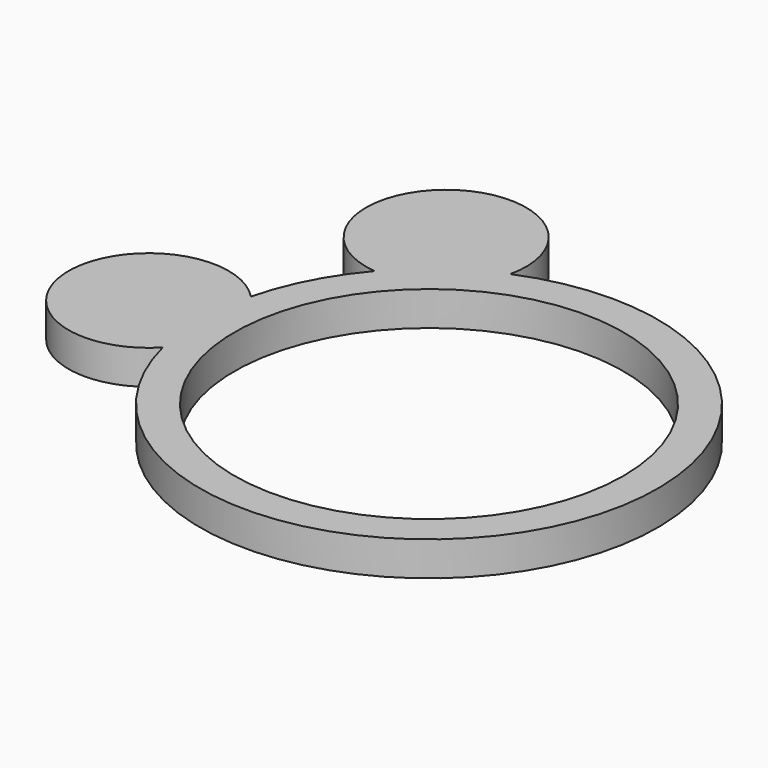
from build123d import *

# Parameters (mm, degrees)
CYLINDER003_R     = 0.7
CYLINDER003_DEPTH = 0.3
CYLINDER002_R     = 0.7
CYLINDER002_DEPTH = 0.3
CYLINDER001_R     = 1.7
CYLINDER001_DEPTH = 1
CYLINDER_R        = 2
CYLINDER_DEPTH    = 0.3


with BuildPart() as cylinder003:
    # Cylinder003 → Cylinder003 (new body)
    with BuildSketch(Plane(origin=(-2.45, 0, 0), x_dir=(1, 0, 0), z_dir=(0, 0, 1))):
        Circle(CYLINDER003_R)
    extrude(amount=CYLINDER003_DEPTH)


with BuildPart() as cylinder002:
    # Cylinder002 → Cylinder002 (new body)
    with BuildSketch(Plane(origin=(-1.45, 2, 0), x_dir=(1, 0, 0), z_dir=(0, 0, 1))):
        Circle(CYLINDER002_R)
    extrude(amount=CYLINDER002_DEPTH)


with BuildPart() as cylinder001:
    # Cylinder001 → Cylinder001 (new body)
    with BuildSketch(Plane.XY.offset(-0.5)):
        Circle(CYLINDER001_R)
    extrude(amount=CYLINDER001_DEPTH)


with BuildPart() as fusion001:
    # Cylinder → Cylinder (new body)
    with BuildSketch(Plane.XY):
        Circle(CYLINDER_R)
    extrude(amount=CYLINDER_DEPTH)

    # Cut: cut Cylinder001
    add(cylinder001.part, mode=Mode.SUBTRACT)

    # Fusion: union Cylinder002
    add(cylinder002.part)

    # Fusion001: union Cylinder003
    add(cylinder003.part)


solid = fusion001.part
